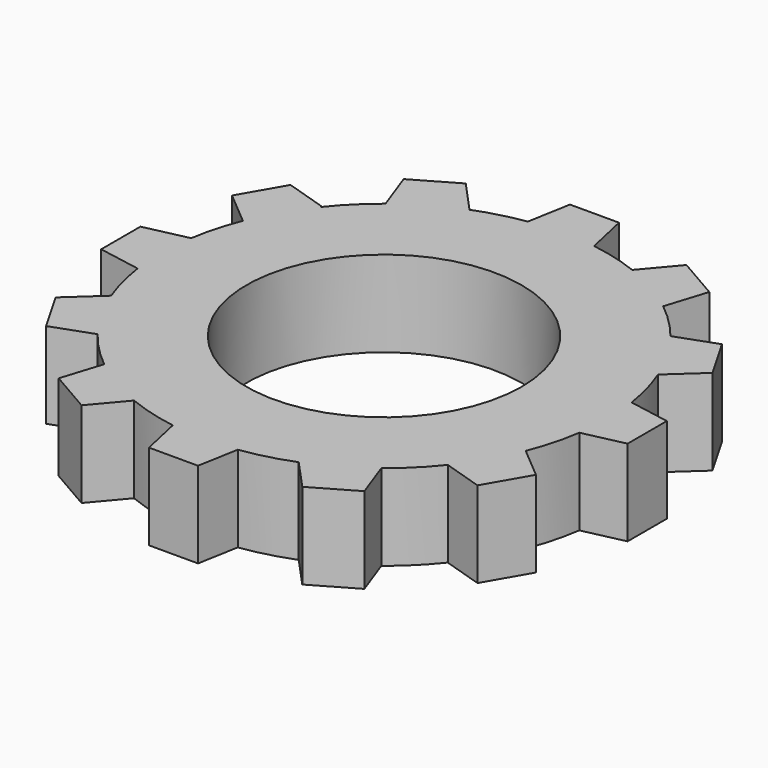
from build123d import *

# Parameters (mm, degrees)
F0_R     = 8
F1_DEPTH = 5


with BuildPart() as f1:
    # F0 (on Top) → F1 (new body)
    with BuildSketch(Plane.XY):
        with BuildLine():
            ThreePointArc((-8.0044057119, 10.2435096134), (-6.5, 11.2583302492), (-4.8689366932, 12.0537734954))
            Line((-4.8689366932, 12.0537734954), (-4.7373265178, 12.1297586656))
            Line((-4.7373265178, 12.1297586656), (-6.4657635443, 14.018596429))
            Line((-6.4657635443, 14.018596429), (-8.933935945, 12.593596429))
            Line((-8.933935945, 12.593596429), (-8.0715243224, 10.2047586656))
            Line((-8.0715243224, 10.2047586656), (-8.0044057119, 10.2435096134))
        make_face()
        with BuildLine():
            ThreePointArc((4.743830128, 12.1035563252), (3.3556109574, 12.5594536148), (1.925, 12.8566860038))
            Line((1.925, 12.8566860038), (-1.925, 12.8566860038))
            ThreePointArc((-1.925, 12.8566860038), (-3.4206082897, 12.5419073082), (-4.8689366932, 12.0537734954))
            Line((-4.8689366932, 12.0537734954), (-8.0044057119, 10.2435096134))
            ThreePointArc((-8.0044057119, 10.2435096134), (-9.18182436, 9.2029398249), (-10.2250960025, 8.0279145325))
            Line((-10.2250960025, 8.0279145325), (-12.0649259258, 4.841235628))
            ThreePointArc((-12.0649259258, 4.841235628), (-12.5358348008, 3.4427962251), (-12.8452325787, 2))
            Line((-12.8452325787, 2), (-12.8452325787, -1.8141498167))
            Line((-12.8452325787, -1.8141498167), (-12.8735077012, -1.8090880212))
            ThreePointArc((-12.8735077012, -1.8090880212), (-12.5874883323, -3.2488671079), (-12.1409769307, -4.6472227372))
            Line((-12.1409769307, -4.6472227372), (-12.1183052404, -4.6264763345))
            Line((-12.1183052404, -4.6264763345), (-10.1933052404, -7.9606741391))
            Line((-10.1933052404, -7.9606741391), (-10.2590920013, -7.9844242941))
            ThreePointArc((-10.2590920013, -7.9844242941), (-9.280273641, -9.1036542744), (-8.1800560603, -10.1037954675))
            Line((-8.1800560603, -10.1037954675), (-8.15760444, -10.0327566781))
            Line((-8.15760444, -10.0327566781), (-4.8234066354, -11.9577566781))
            Line((-4.8234066354, -11.9577566781), (-4.8953676956, -12.0430633613))
            ThreePointArc((-4.8953676956, -12.0430633613), (-3.470885444, -12.5280866151), (-1.9998974916, -12.8452485388))
            Line((-1.9998974916, -12.8452485388), (-2.0243967581, -12.7343823954))
            Line((-2.0243967581, -12.7343823954), (1.8256032419, -12.7343823954))
            Line((1.8256032419, -12.7343823954), (1.8004811118, -12.874714279))
            ThreePointArc((1.8004811118, -12.874714279), (3.2879257328, -12.5773425005), (4.730605508, -12.1087312105))
            Line((4.730605508, -12.1087312105), (4.6379297596, -12.0074550572))
            Line((4.6379297596, -12.0074550572), (7.9721275642, -10.0824550572))
            Line((7.9721275642, -10.0824550572), (8.0245708298, -10.2277203226))
            ThreePointArc((8.0245708298, -10.2277203226), (9.1634355916, -9.2212498154), (10.1770488861, -8.0887376006))
            Line((10.1770488861, -8.0887376006), (10.0442101032, -8.0467542567))
            Line((10.0442101032, -8.0467542567), (11.9692101032, -4.7125564521))
            Line((11.9692101032, -4.7125564521), (12.0792509027, -4.8053821522))
            ThreePointArc((12.0792509027, -4.8053821522), (12.555754306, -3.3694263322), (12.8621959896, -1.8878332353))
            Line((12.8621959896, -1.8878332353), (12.7458358205, -1.9135465749))
            Line((12.7458358205, -1.9135465749), (12.7458358205, 1.9364534251))
            Line((12.7458358205, 1.9364534251), (12.8579739202, 1.9163785295))
            ThreePointArc((12.8579739202, 1.9163785295), (12.5521491468, 3.3828319198), (12.0796545351, 4.8043674205))
            Line((12.0796545351, 4.8043674205), (12.0189084823, 4.7487799429))
            Line((12.0189084823, 4.7487799429), (10.0939084823, 8.0829777475))
            Line((10.0939084823, 8.0829777475), (10.1620468907, 8.1075768878))
            ThreePointArc((10.1620468907, 8.1075768878), (9.1753494128, 9.2093953739), (8.0698840464, 10.1920052727))
            Line((8.0698840464, 10.1920052727), (8.0582076818, 10.1550602865))
            Line((8.0582076818, 10.1550602865), (4.7240098772, 12.0800602865))
            Line((4.7240098772, 12.0800602865), (4.743830128, 12.1035563252))
        make_face()
        Circle(F0_R, mode=Mode.SUBTRACT)
        with BuildLine():
            ThreePointArc((-12.0649259258, 4.841235628), (-11.2583302492, 6.5), (-10.2250960025, 8.0279145325))
            Line((-10.2250960025, 8.0279145325), (-10.1436068614, 8.1690578651))
            Line((-10.1436068614, 8.1690578651), (-12.5848961169, 8.9406208386))
            Line((-12.5848961169, 8.9406208386), (-14.0098961169, 6.4724484378))
            Line((-14.0098961169, 6.4724484378), (-12.0686068614, 4.8348600605))
            Line((-12.0686068614, 4.8348600605), (-12.0649259258, 4.841235628))
        make_face()
        with BuildLine():
            ThreePointArc((-12.8735077012, -1.8090880212), (-12.9996418521, 0.096497236), (-12.8452325787, 2))
            Line((-12.8452325787, 2), (-12.8452325787, 2.0358501833))
            Line((-12.8452325787, 2.0358501833), (-15.3452325787, 1.4833986912))
            Line((-15.3452325787, 1.4833986912), (-15.3452325787, -1.3666013088))
            Line((-15.3452325787, -1.3666013088), (-12.8735077012, -1.8090880212))
        make_face()
        with BuildLine():
            ThreePointArc((-10.2590920013, -7.9844242941), (-11.3236478485, -6.3855304715), (-12.1409769307, -4.6472227372))
            Line((-12.1409769307, -4.6472227372), (-14.0071430039, -6.354913361))
            Line((-14.0071430039, -6.354913361), (-12.5821430039, -8.8230857618))
            Line((-12.5821430039, -8.8230857618), (-10.2590920013, -7.9844242941))
        make_face()
        with BuildLine():
            ThreePointArc((-4.8953676956, -12.0430633613), (-6.6092258692, -11.1945582052), (-8.1800560603, -10.1037954675))
            Line((-8.1800560603, -10.1037954675), (-8.9291674135, -12.4740459336))
            Line((-8.9291674135, -12.4740459336), (-6.4609950127, -13.8990459336))
            Line((-6.4609950127, -13.8990459336), (-4.8953676956, -12.0430633613))
        make_face()
        with BuildLine():
            ThreePointArc((1.8004811118, -12.874714279), (-0.1007907763, -12.9996092718), (-1.9998974916, -12.8452485388))
            Line((-1.9998974916, -12.8452485388), (-1.4719452661, -15.2343823954))
            Line((-1.4719452661, -15.2343823954), (1.3780547339, -15.2343823954))
            Line((1.3780547339, -15.2343823954), (1.8004811118, -12.874714279))
        make_face()
        with BuildLine():
            Line((8.8345391869, -12.4712928206), (8.0245708298, -10.2277203226))
            ThreePointArc((8.0245708298, -10.2277203226), (6.4465635297, -11.2890131835), (4.730605508, -12.1087312105))
            Line((4.730605508, -12.1087312105), (6.3663667861, -13.8962928206))
            Line((6.3663667861, -13.8962928206), (8.8345391869, -12.4712928206))
        make_face()
        with BuildLine():
            Line((13.9104993587, -6.3501448294), (12.0792509027, -4.8053821522))
            ThreePointArc((12.0792509027, -4.8053821522), (11.2485921707, -6.5168377437), (10.1770488861, -8.0887376006))
            Line((10.1770488861, -8.0887376006), (12.4854993587, -8.8183172302))
            Line((12.4854993587, -8.8183172302), (13.9104993587, -6.3501448294))
        make_face()
        with BuildLine():
            Line((15.2458358205, 1.4889049172), (12.8579739202, 1.9163785295))
            ThreePointArc((12.8579739202, 1.9163785295), (12.9644448582, 0.96081711), (13, 0))
            ThreePointArc((13, 0), (12.9655032271, -0.9464280571), (12.8621959896, -1.8878332353))
            Line((12.8621959896, -1.8878332353), (15.2458358205, -1.3610950828))
            Line((15.2458358205, -1.3610950828), (15.2458358205, 1.4889049172))
        make_face()
        with BuildLine():
            Line((6.3615982545, 14.021349542), (4.743830128, 12.1035563252))
            ThreePointArc((4.743830128, 12.1035563252), (6.4777561387, 11.2711434827), (8.0698840464, 10.1920052727))
            Line((8.0698840464, 10.1920052727), (8.8297706553, 12.596349542))
            Line((8.8297706553, 12.596349542), (6.3615982545, 14.021349542))
        make_face()
        with BuildLine():
            ThreePointArc((-1.925, 12.8566860038), (0, 13), (1.925, 12.8566860038))
            Line((1.925, 12.8566860038), (1.3725485079, 15.3566860038))
            Line((1.3725485079, 15.3566860038), (-1.4774514921, 15.3566860038))
            Line((-1.4774514921, 15.3566860038), (-1.925, 12.8566860038))
        make_face()
        with BuildLine():
            Line((12.4827462457, 8.9453893702), (10.1620468907, 8.1075768878))
            ThreePointArc((10.1620468907, 8.1075768878), (11.2428252132, 6.5267818429), (12.0796545351, 4.8043674205))
            Line((12.0796545351, 4.8043674205), (13.9077462457, 6.4772169694))
            Line((13.9077462457, 6.4772169694), (12.4827462457, 8.9453893702))
        make_face()
        with BuildLine():
            ThreePointArc((13, 0), (12.9644448582, 0.96081711), (12.8579739202, 1.9163785295))
            Line((12.8579739202, 1.9163785295), (12.7458358205, 1.9364534251))
            Line((12.7458358205, 1.9364534251), (12.7458358205, -1.9135465749))
            Line((12.7458358205, -1.9135465749), (12.8621959896, -1.8878332353))
            ThreePointArc((12.8621959896, -1.8878332353), (12.9655032271, -0.9464280571), (13, 0))
        make_face()
        with BuildLine():
            ThreePointArc((12.0796545351, 4.8043674205), (11.2428252132, 6.5267818429), (10.1620468907, 8.1075768878))
            Line((10.1620468907, 8.1075768878), (10.0939084823, 8.0829777475))
            Line((10.0939084823, 8.0829777475), (12.0189084823, 4.7487799429))
            Line((12.0189084823, 4.7487799429), (12.0796545351, 4.8043674205))
        make_face()
        with BuildLine():
            ThreePointArc((8.0698840464, 10.1920052727), (6.4777561387, 11.2711434827), (4.743830128, 12.1035563252))
            Line((4.743830128, 12.1035563252), (4.7240098772, 12.0800602865))
            Line((4.7240098772, 12.0800602865), (8.0582076818, 10.1550602865))
            Line((8.0582076818, 10.1550602865), (8.0698840464, 10.1920052727))
        make_face()
        with BuildLine():
            Line((-1.925, 12.8566860038), (1.925, 12.8566860038))
            ThreePointArc((1.925, 12.8566860038), (0, 13), (-1.925, 12.8566860038))
        make_face()
        with BuildLine():
            Line((-8.0044057119, 10.2435096134), (-4.8689366932, 12.0537734954))
            ThreePointArc((-4.8689366932, 12.0537734954), (-6.5, 11.2583302492), (-8.0044057119, 10.2435096134))
        make_face()
        with BuildLine():
            Line((-12.0649259258, 4.841235628), (-10.2250960025, 8.0279145325))
            ThreePointArc((-10.2250960025, 8.0279145325), (-11.2583302492, 6.5), (-12.0649259258, 4.841235628))
        make_face()
        with BuildLine():
            Line((-12.8452325787, -1.8141498167), (-12.8452325787, 2))
            ThreePointArc((-12.8452325787, 2), (-12.9996418521, 0.096497236), (-12.8735077012, -1.8090880212))
            Line((-12.8735077012, -1.8090880212), (-12.8452325787, -1.8141498167))
        make_face()
        with BuildLine():
            Line((-12.1183052404, -4.6264763345), (-12.1409769307, -4.6472227372))
            ThreePointArc((-12.1409769307, -4.6472227372), (-11.3236478485, -6.3855304715), (-10.2590920013, -7.9844242941))
            Line((-10.2590920013, -7.9844242941), (-10.1933052404, -7.9606741391))
            Line((-10.1933052404, -7.9606741391), (-12.1183052404, -4.6264763345))
        make_face()
        with BuildLine():
            Line((-8.15760444, -10.0327566781), (-8.1800560603, -10.1037954675))
            ThreePointArc((-8.1800560603, -10.1037954675), (-6.6092258692, -11.1945582052), (-4.8953676956, -12.0430633613))
            Line((-4.8953676956, -12.0430633613), (-4.8234066354, -11.9577566781))
            Line((-4.8234066354, -11.9577566781), (-8.15760444, -10.0327566781))
        make_face()
        with BuildLine():
            Line((-2.0243967581, -12.7343823954), (-1.9998974916, -12.8452485388))
            ThreePointArc((-1.9998974916, -12.8452485388), (-0.1007907763, -12.9996092718), (1.8004811118, -12.874714279))
            Line((1.8004811118, -12.874714279), (1.8256032419, -12.7343823954))
            Line((1.8256032419, -12.7343823954), (-2.0243967581, -12.7343823954))
        make_face()
        with BuildLine():
            ThreePointArc((4.730605508, -12.1087312105), (6.4465635297, -11.2890131835), (8.0245708298, -10.2277203226))
            Line((8.0245708298, -10.2277203226), (7.9721275642, -10.0824550572))
            Line((7.9721275642, -10.0824550572), (4.6379297596, -12.0074550572))
            Line((4.6379297596, -12.0074550572), (4.730605508, -12.1087312105))
        make_face()
        with BuildLine():
            ThreePointArc((10.1770488861, -8.0887376006), (11.2485921707, -6.5168377437), (12.0792509027, -4.8053821522))
            Line((12.0792509027, -4.8053821522), (11.9692101032, -4.7125564521))
            Line((11.9692101032, -4.7125564521), (10.0442101032, -8.0467542567))
            Line((10.0442101032, -8.0467542567), (10.1770488861, -8.0887376006))
        make_face()
    extrude(amount=F1_DEPTH)


solid = f1.part
